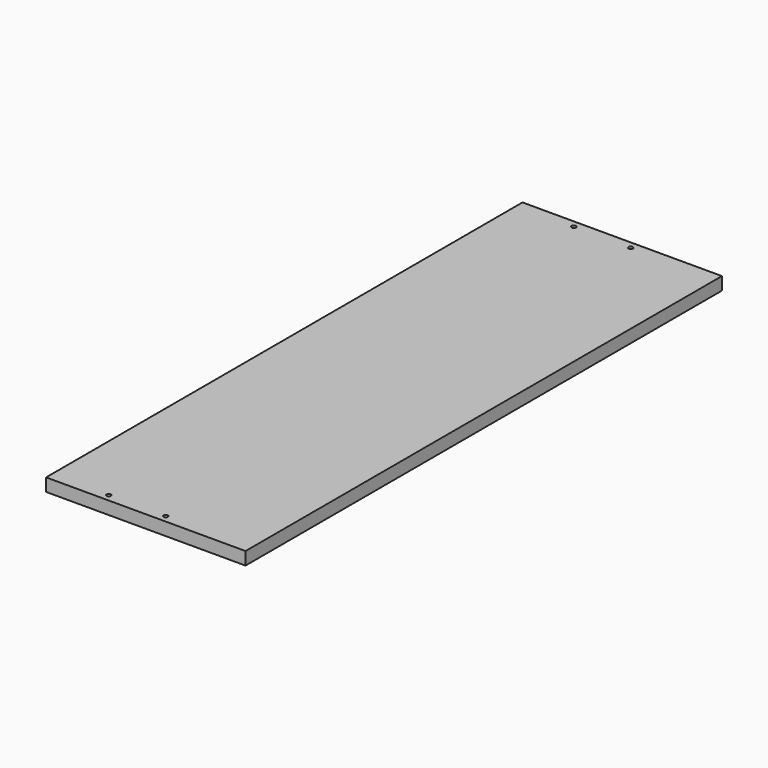
from build123d import *

# Parameters (mm, degrees)
SKETCH_W    = 140
SKETCH_H    = 418
PAD_DEPTH   = 9
SKETCH001_R = 1.5
HOLE_DEPTH  = 9.001


with BuildPart() as part:
    # Sketch → Pad (new body)
    with BuildSketch(Plane.XY):
        with Locations((70, 209)):
            Rectangle(SKETCH_W, SKETCH_H)
    extrude(amount=PAD_DEPTH)

    # Sketch001 (on Face6 of Pad) → Hole (cut, through all)
    with BuildSketch(Plane.XY.offset(9)):
        with Locations((40, 5)):
            Circle(SKETCH001_R)
        with Locations((80, 5)):
            Circle(SKETCH001_R)
        with Locations((145, 100)):
            Circle(SKETCH001_R)
        with Locations((145, 300)):
            Circle(SKETCH001_R)
        with Locations((40, 413)):
            Circle(SKETCH001_R)
        with Locations((80, 413)):
            Circle(SKETCH001_R)
        with Locations((145, 200)):
            Circle(SKETCH001_R)
    extrude(amount=-HOLE_DEPTH, mode=Mode.SUBTRACT)


solid = part.part
